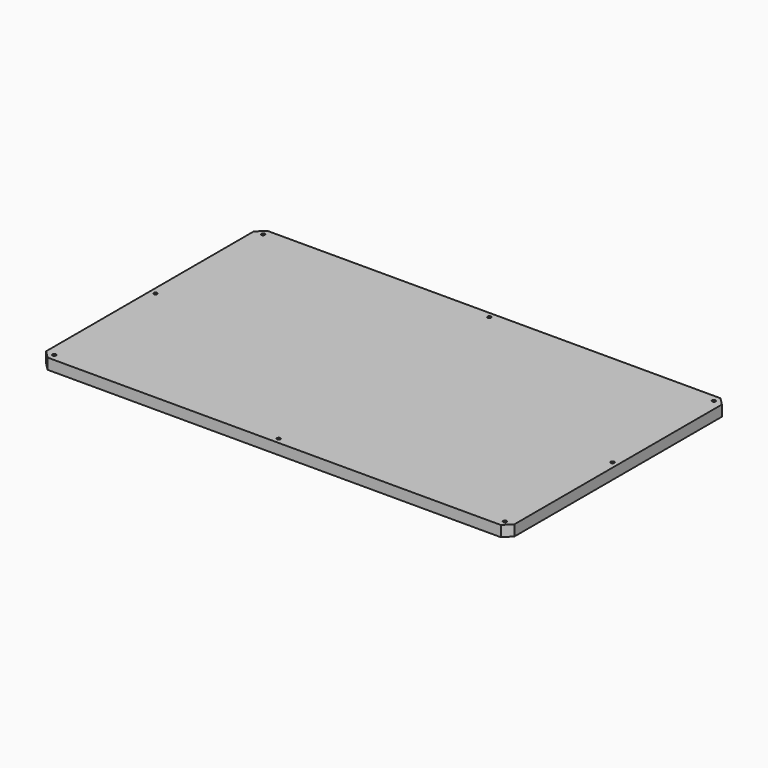
from build123d import *

# Parameters (mm, degrees)
F0_W     = 276.225
F0_H     = 161.925
F1_DEPTH = 6.35
F2_SIZE  = 4.4704
F3_R     = 1.016
F4_DEPTH = 6.351


with BuildPart() as f1:
    # F0 (on Top) → F1 (new body)
    with BuildSketch(Plane.XY):
        with Locations((3.086437, -9.229104)):
            Rectangle(F0_W, F0_H)
    extrude(amount=F1_DEPTH)

    # F2
    f2_edges = [f1.edges().sort_by_distance(p)[0] for p in [
        (-135.026063, 71.733396, 3.175),
        (141.198937, 71.733396, 3.175),
        (141.198937, -90.191604, 3.175),
        (-135.026063, -90.191604, 3.175),
    ]]
    chamfer(f2_edges, length=F2_SIZE)

    # F3 (on face) → F4 (cut, through all)
    with BuildSketch(Plane.XY.offset(6.35)):
        with Locations((-131.724063, -9.229104)):
            Circle(F3_R)
        with Locations((3.086437, -86.889604)):
            Circle(F3_R)
        with Locations((3.086437, 68.431396)):
            Circle(F3_R)
        with Locations((-129.834213, 67.785113)):
            Circle(F3_R)
        with Locations((-129.834213, -86.243321)):
            Circle(F3_R)
        with Locations((136.007086, -86.243321)):
            Circle(F3_R)
        with Locations((137.896937, -9.229104)):
            Circle(F3_R)
        with Locations((136.007086, 67.785113)):
            Circle(F3_R)
    extrude(amount=-F4_DEPTH, mode=Mode.SUBTRACT)


solid = f1.part
